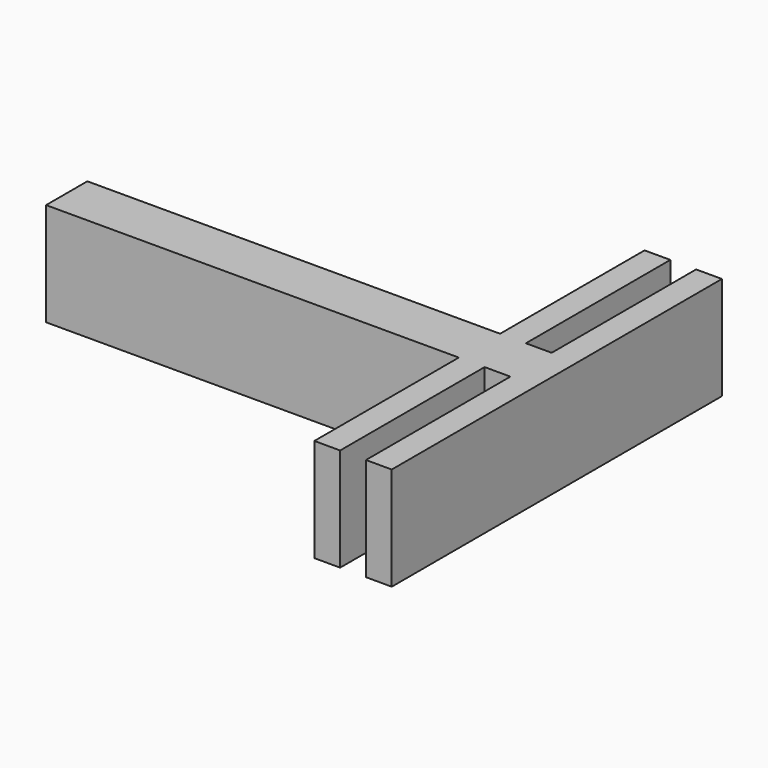
from build123d import *

# Parameters (mm, degrees)
F0_W     = 25.4
F0_H     = 3.175
F0_W_2   = 1.5875
F0_H_2   = 11.1125
F1_DEPTH = 6.35


with BuildPart() as f1:
    # F0 (on Top) → F1 (new body)
    with BuildSketch(Plane.XY):
        with Locations((-17.4625, -12.7)):
            Rectangle(F0_W, F0_H)
        with Locations((-3.96875, -5.55625)):
            Rectangle(F0_W_2, F0_H_2)
        Polygon((-3.175, -14.2875), (-3.175, -11.1125), (-4.7625, -11.1125), (-4.7625, -14.2875), (-4.7625, -25.4), (-3.175, -25.4), align=None)
        with Locations((-2.38125, -12.7)):
            Rectangle(F0_W_2, F0_H)
        Polygon((0, -25.4), (0, 0), (-1.5875, 0), (-1.5875, -11.1125), (-1.5875, -14.2875), (-1.5875, -25.4), align=None)
    extrude(amount=F1_DEPTH)


solid = f1.part
